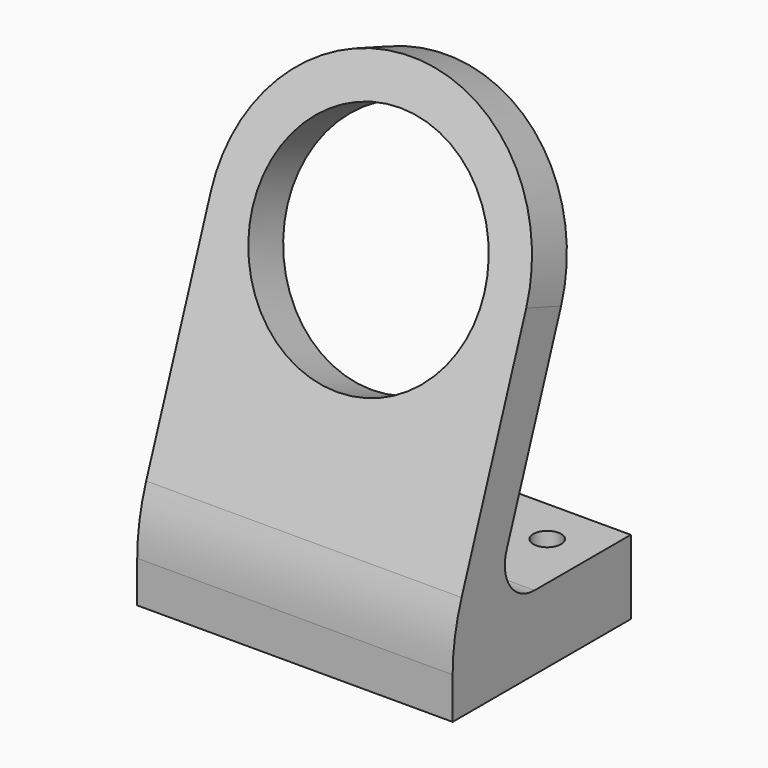
from build123d import *

# Parameters (mm, degrees)
F0_W     = 17
F0_H     = 12
F1_DEPTH = 4
F2_R     = 0.75
F3_DEPTH = 25
F5_R     = 6.25
F6_DEPTH = 2.5
F7_R     = 2
F8_R     = 10


with BuildPart() as f1:
    # F0 (on Top) → F1 (new body)
    with BuildSketch(Plane.XY):
        with Locations((0, -6)):
            Rectangle(F0_W, F0_H)
    extrude(amount=F1_DEPTH)

    # F2 (on face) → F3 (cut)
    with BuildSketch(Plane.XY.offset(4)):
        with Locations((-6, -2.5)):
            Circle(F2_R)
        with Locations((6, -2.5)):
            Circle(F2_R)
    extrude(amount=-F3_DEPTH, mode=Mode.SUBTRACT)

    # F5 (on face) → F6 (join)
    with BuildSketch(Plane(origin=(0, -11.8818418781, 4.3246367719), x_dir=(-1, 0, 0), z_dir=(0, 0.9396926208, -0.3420201433))):
        with BuildLine():
            Line((-8.5, -0.3454712368), (8.5, -0.3454712368))
            Line((8.5, -0.3454712368), (8.5, 14.1457582801))
            ThreePointArc((8.5, 14.1457582801), (0, 22.6457582801), (-8.5, 14.1457582801))
            Line((-8.5, 14.1457582801), (-8.5, -0.3454712368))
        make_face()
        with Locations((0, 14.1457582801)):
            Circle(F5_R, mode=Mode.SUBTRACT)
    extrude(amount=F6_DEPTH)

    # F7
    f7_edges = [f1.edges().sort_by_distance(p)[0] for p in [
        (0, -9.339556, 4),
    ]]
    fillet(f7_edges, radius=F7_R)

    # F8
    f8_edges = [f1.edges().sort_by_distance(p)[0] for p in [
        (0, -12, 4),
    ]]
    fillet(f8_edges, radius=F8_R)


solid = f1.part
